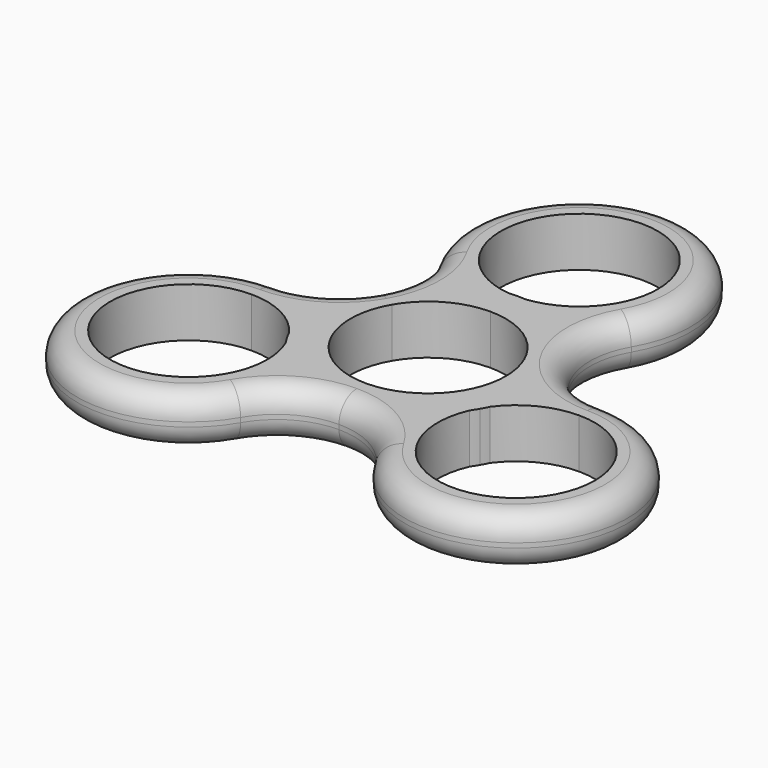
from build123d import *

# Parameters (mm, degrees)
F1_DEPTH = 7
F2_R     = 3.175
F3_DEPTH = 7.001


with BuildPart() as f1:
    # F0 (on Top) → F1 (new body)
    with BuildSketch(Plane.XY):
        with BuildLine():
            ThreePointArc((9.5262794416, 5.5), (10.6251840892, 2.8470094961), (11, 0))
            ThreePointArc((11, 0), (10.6251840892, -2.8470094961), (9.5262794416, -5.5))
            Line((9.5262794416, -5.5), (13.5532975692, -7.825))
            ThreePointArc((13.5532975692, -7.825), (13.8704404913, -7.3087286342), (14.2152508461, -6.8105102329))
            ThreePointArc((14.2152508461, -6.8105102329), (15.3708213462, -3.4920276909), (15.7625, 0))
            ThreePointArc((15.7625, 0), (15.7603228949, 0.2619704177), (15.7537921808, 0.5238684691))
            ThreePointArc((15.7537921808, 0.5238684691), (15.1554999741, 4.3321157401), (13.6507254004, 7.8812500464))
            Line((13.6507254272, 7.88125), (9.5262794416, 5.5))
        make_face()
        with BuildLine():
            ThreePointArc((0, 11), (5.5, 9.5262794416), (9.5262794416, 5.5))
            Line((9.5262794416, 5.5), (13.6507254272, 7.88125))
            ThreePointArc((13.6507254004, 7.8812500464), (11.3294722329, 10.9589901531), (8.3305794929, 13.38125))
            ThreePointArc((8.3305794929, 13.38125), (4.9108361907, 14.9779869862), (1.2095505486, 15.7160234703))
            ThreePointArc((1.2095505486, 15.7160234703), (0.6056755791, 15.6665181443), (0, 15.65))
            Line((0, 15.65), (0, 11))
        make_face()
        with BuildLine():
            Line((13.5532975692, -7.825), (9.5262794416, -5.5))
            ThreePointArc((9.5262794416, -5.5), (5.5, -9.5262794416), (0, -11))
            Line((0, -11), (0, -15.7625))
            ThreePointArc((2.65e-08, -15.7625), (3.8260277428, -15.2911058449), (7.4232126879, -13.9051184691))
            ThreePointArc((7.4232126879, -13.9051184691), (10.5158991322, -11.7419023881), (13.0057002975, -8.9055132374))
            ThreePointArc((13.0057002975, -8.9055132374), (13.2647649122, -8.3577895101), (13.5532975692, -7.825))
        make_face()
        with BuildLine():
            ThreePointArc((-9.5262794416, 5.5), (-5.5, 9.5262794416), (0, 11))
            Line((0, 11), (0, 15.65))
            ThreePointArc((0, 15.65), (-0.6056755791, 15.6665181443), (-1.2095505486, 15.7160234703))
            ThreePointArc((-1.2095505486, 15.7160234703), (-4.9108361907, 14.9779869862), (-8.3305794929, 13.38125))
            ThreePointArc((-8.3305794929, 13.38125), (-11.3294722485, 10.9589901369), (-13.6507254229, 7.8812500074))
            Line((-13.6507254272, 7.88125), (-9.5262794416, 5.5))
        make_face()
        with BuildLine():
            ThreePointArc((23.1770048688, 2.38125), (17.6770048456, 3.8549705718), (13.6507254004, 7.8812500464))
            ThreePointArc((13.6507254004, 7.8812500464), (15.1554999741, 4.3321157401), (15.7537921808, 0.5238684691))
            ThreePointArc((15.7537921808, 0.5238684691), (19.3509771388, 1.9098558482), (23.1770048688, 2.38125))
        make_face()
        with BuildLine():
            ThreePointArc((8.3305794929, 13.38125), (11.3294722329, 10.9589901531), (13.6507254004, 7.8812500464))
            ThreePointArc((13.6507254004, 7.8812500464), (12.1770048688, 13.3812500268), (13.6507254272, 18.88125))
            ThreePointArc((13.6507254272, 18.88125), (11.3294722515, 15.8035098662), (8.3305794929, 13.38125))
        make_face()
        with BuildLine():
            Line((0, -15.7625), (0, -11))
            ThreePointArc((0, -11), (-5.5, -9.5262794416), (-9.5262794416, -5.5))
            Line((-9.5262794416, -5.5), (-13.5532975692, -7.825))
            ThreePointArc((-13.5532975692, -7.825), (-13.2647649122, -8.3577895101), (-13.0057002975, -8.9055132374))
            ThreePointArc((-13.0057002975, -8.9055132374), (-10.5158991322, -11.7419023881), (-7.4232126879, -13.9051184691))
            ThreePointArc((-7.4232126879, -13.9051184691), (-3.8260277171, -15.2911058514), (2.65e-08, -15.7625))
        make_face()
        with BuildLine():
            ThreePointArc((-9.5262794416, -5.5), (-11, 0), (-9.5262794416, 5.5))
            Line((-9.5262794416, 5.5), (-13.6507254272, 7.88125))
            ThreePointArc((-13.6507254229, 7.8812500074), (-15.1554999803, 4.3321157185), (-15.7537921808, 0.5238684691))
            ThreePointArc((-15.7537921808, 0.5238684691), (-15.4267353229, -3.2360845981), (-14.2152508461, -6.8105102329))
            ThreePointArc((-14.2152508461, -6.8105102329), (-13.8704404913, -7.3087286342), (-13.5532975692, -7.825))
            Line((-13.5532975692, -7.825), (-9.5262794416, -5.5))
        make_face()
        with BuildLine():
            ThreePointArc((23.1770048688, 2.38125), (19.3509771388, 1.9098558482), (15.7537921808, 0.5238684691))
            ThreePointArc((15.7537921808, 0.5238684691), (15.7603228949, 0.2619704177), (15.7625, 0))
            ThreePointArc((15.7625, 0), (15.3708213462, -3.4920276909), (14.2152508461, -6.8105102329))
            ThreePointArc((14.2152508461, -6.8105102329), (18.1535443788, -3.4690100435), (23.1770048688, -2.26875))
            Line((23.1770048688, -2.26875), (23.1770048688, 2.38125))
        make_face()
        with BuildLine():
            ThreePointArc((1.2095505486, 15.7160234703), (4.9108361907, 14.9779869862), (8.3305794929, 13.38125))
            ThreePointArc((8.3305794929, 13.38125), (11.3294722515, 15.8035098662), (13.6507254272, 18.88125))
            Line((13.6507254272, 18.88125), (9.6237072996, 21.20625))
            ThreePointArc((9.6237072996, 21.20625), (6.0725213658, 17.4559356225), (1.2095505486, 15.7160234703))
        make_face()
        with BuildLine():
            Line((9.6237072996, 21.20625), (13.6507254272, 18.88125))
            ThreePointArc((13.6507254272, 18.88125), (0, 42.525), (-13.6507254272, 18.88125))
            Line((-13.6507254272, 18.88125), (-9.6237072996, 21.20625))
            ThreePointArc((-9.6237072996, 21.20625), (-2.8761266387, 37.4963507446), (11.1125, 26.7625))
            ThreePointArc((11.1125, 26.7625), (10.7338507446, 23.8863733613), (9.6237072996, 21.20625))
        make_face()
        with BuildLine():
            ThreePointArc((9.5262794416, -21.2625), (36.8277302959, -21.2625), (23.1770048688, 2.38125))
            Line((23.1770048688, 2.38125), (23.1770048688, -2.26875))
            ThreePointArc((23.1770048688, -2.26875), (31.0347289747, -5.5235258941), (34.2895048688, -13.38125))
            ThreePointArc((34.2895048688, -13.38125), (26.0531315075, -24.1151007446), (13.5532975692, -18.9375))
            Line((13.5532975692, -18.9375), (9.5262794416, -21.2625))
        make_face()
        with BuildLine():
            ThreePointArc((-9.5262794416, -21.2625), (-5.4999999885, -17.2362205517), (2.65e-08, -15.7625))
            ThreePointArc((2.65e-08, -15.7625), (-3.8260277171, -15.2911058514), (-7.4232126879, -13.9051184691))
            ThreePointArc((-7.4232126879, -13.9051184691), (-8.0215048873, -17.7133657143), (-9.5262794416, -21.2625))
        make_face()
        with BuildLine():
            ThreePointArc((7.4232126879, -13.9051184691), (3.8260277428, -15.2911058449), (2.65e-08, -15.7625))
            ThreePointArc((2.65e-08, -15.7625), (5.5000000115, -17.236220565), (9.5262794416, -21.2625))
            ThreePointArc((9.5262794416, -21.2625), (8.0215048873, -17.7133657143), (7.4232126879, -13.9051184691))
        make_face()
        with BuildLine():
            ThreePointArc((13.5532975692, -18.9375), (12.081023013, -13.9869255791), (13.0057002975, -8.9055132374))
            ThreePointArc((13.0057002975, -8.9055132374), (10.5158991322, -11.7419023881), (7.4232126879, -13.9051184691))
            ThreePointArc((7.4232126879, -13.9051184691), (8.0215048873, -17.7133657143), (9.5262794416, -21.2625))
            Line((9.5262794416, -21.2625), (13.5532975692, -18.9375))
        make_face()
        with BuildLine():
            ThreePointArc((-13.6507254272, 18.88125), (-12.1770048688, 13.3812500043), (-13.6507254229, 7.8812500074))
            ThreePointArc((-13.6507254229, 7.8812500074), (-11.3294722485, 10.9589901369), (-8.3305794929, 13.38125))
            ThreePointArc((-8.3305794929, 13.38125), (-11.3294722515, 15.8035098662), (-13.6507254272, 18.88125))
        make_face()
        with BuildLine():
            ThreePointArc((-15.7537921808, 0.5238684691), (-15.1554999803, 4.3321157185), (-13.6507254229, 7.8812500074))
            ThreePointArc((-13.6507254229, 7.8812500074), (-17.6770048651, 3.8549705605), (-23.1770048688, 2.38125))
            ThreePointArc((-23.1770048688, 2.38125), (-19.3509771388, 1.9098558482), (-15.7537921808, 0.5238684691))
        make_face()
        with BuildLine():
            ThreePointArc((-8.3305794929, 13.38125), (-4.9108361907, 14.9779869862), (-1.2095505486, 15.7160234703))
            ThreePointArc((-1.2095505486, 15.7160234703), (-6.0725213658, 17.4559356225), (-9.6237072996, 21.20625))
            Line((-9.6237072996, 21.20625), (-13.6507254272, 18.88125))
            ThreePointArc((-13.6507254272, 18.88125), (-11.3294722515, 15.8035098662), (-8.3305794929, 13.38125))
        make_face()
        with BuildLine():
            ThreePointArc((-9.5262794416, -21.2625), (-8.0215048873, -17.7133657143), (-7.4232126879, -13.9051184691))
            ThreePointArc((-7.4232126879, -13.9051184691), (-10.5158991322, -11.7419023881), (-13.0057002975, -8.9055132374))
            ThreePointArc((-13.0057002975, -8.9055132374), (-12.3023490513, -11.0944362558), (-12.0645048688, -13.38125))
            ThreePointArc((-12.0645048688, -13.38125), (-12.4431541241, -16.2573766387), (-13.5532975692, -18.9375))
            Line((-13.5532975692, -18.9375), (-9.5262794416, -21.2625))
        make_face()
        with BuildLine():
            ThreePointArc((-23.1770048688, 2.38125), (-36.8277302959, -21.2625), (-9.5262794416, -21.2625))
            Line((-9.5262794416, -21.2625), (-13.5532975692, -18.9375))
            ThreePointArc((-13.5532975692, -18.9375), (-32.8007121683, -18.9375), (-23.1770048688, -2.26875))
            Line((-23.1770048688, -2.26875), (-23.1770048688, 2.38125))
        make_face()
        with BuildLine():
            ThreePointArc((-14.2152508461, -6.8105102329), (-15.4267353229, -3.2360845981), (-15.7537921808, 0.5238684691))
            ThreePointArc((-15.7537921808, 0.5238684691), (-19.3509771388, 1.9098558482), (-23.1770048688, 2.38125))
            Line((-23.1770048688, 2.38125), (-23.1770048688, -2.26875))
            ThreePointArc((-23.1770048688, -2.26875), (-18.1535443788, -3.4690100435), (-14.2152508461, -6.8105102329))
        make_face()
        with BuildLine():
            ThreePointArc((-23.1770048688, -2.26875), (-32.8007121683, -18.9375), (-13.5532975692, -18.9375))
            Line((-13.5532975692, -18.9375), (-23.1770048688, -13.38125))
            Line((-23.1770048688, -13.38125), (-23.1770048688, -2.26875))
        make_face()
        with BuildLine():
            ThreePointArc((-12.0645048688, -13.38125), (-12.3023490513, -11.0944362558), (-13.0057002975, -8.9055132374))
            ThreePointArc((-13.0057002975, -8.9055132374), (-13.3380484666, -8.3995755459), (-13.6507254272, -7.88125))
            Line((-13.6507254272, -7.88125), (-23.1770048688, -13.38125))
            Line((-23.1770048688, -13.38125), (-13.5532975692, -18.9375))
            ThreePointArc((-13.5532975692, -18.9375), (-12.4431541241, -16.2573766387), (-12.0645048688, -13.38125))
        make_face()
        with BuildLine():
            ThreePointArc((34.2895048688, -13.38125), (31.0347289747, -5.5235258941), (23.1770048688, -2.26875))
            Line((23.1770048688, -2.26875), (23.1770048688, -13.38125))
            Line((23.1770048688, -13.38125), (13.5532975692, -18.9375))
            ThreePointArc((13.5532975692, -18.9375), (26.0531315075, -24.1151007446), (34.2895048688, -13.38125))
        make_face()
        with BuildLine():
            ThreePointArc((13.6507254272, -7.88125), (13.3380484666, -8.3995755459), (13.0057002975, -8.9055132374))
            ThreePointArc((13.0057002975, -8.9055132374), (12.081023013, -13.9869255791), (13.5532975692, -18.9375))
            Line((13.5532975692, -18.9375), (23.1770048688, -13.38125))
            Line((23.1770048688, -13.38125), (13.6507254272, -7.88125))
        make_face()
        with BuildLine():
            ThreePointArc((23.1770048688, -2.26875), (18.1535443788, -3.4690100435), (14.2152508461, -6.8105102329))
            ThreePointArc((14.2152508461, -6.8105102329), (13.9432700371, -7.351301036), (13.6507254272, -7.88125))
            Line((13.6507254272, -7.88125), (23.1770048688, -13.38125))
            Line((23.1770048688, -13.38125), (23.1770048688, -2.26875))
        make_face()
        with BuildLine():
            ThreePointArc((-13.6507254272, -7.88125), (-13.9432700371, -7.351301036), (-14.2152508461, -6.8105102329))
            ThreePointArc((-14.2152508461, -6.8105102329), (-18.1535443788, -3.4690100435), (-23.1770048688, -2.26875))
            Line((-23.1770048688, -2.26875), (-23.1770048688, -13.38125))
            Line((-23.1770048688, -13.38125), (-13.6507254272, -7.88125))
        make_face()
        with BuildLine():
            ThreePointArc((0, -11), (5.5, -9.5262794416), (9.5262794416, -5.5))
            Line((9.5262794416, -5.5), (0, 0))
            Line((0, 0), (0, -11))
        make_face()
        with BuildLine():
            Line((0, -11), (0, 0))
            Line((0, 0), (-9.5262794416, -5.5))
            ThreePointArc((-9.5262794416, -5.5), (-5.5, -9.5262794416), (0, -11))
        make_face()
        with BuildLine():
            Line((-9.5262794416, -5.5), (0, 0))
            Line((0, 0), (-9.5262794416, 5.5))
            ThreePointArc((-9.5262794416, 5.5), (-11, 0), (-9.5262794416, -5.5))
        make_face()
        with BuildLine():
            Line((0, 0), (0, 11))
            ThreePointArc((0, 11), (-5.5, 9.5262794416), (-9.5262794416, 5.5))
            Line((-9.5262794416, 5.5), (0, 0))
        make_face()
        with BuildLine():
            Line((0, 0), (9.5262794416, 5.5))
            ThreePointArc((9.5262794416, 5.5), (5.5, 9.5262794416), (0, 11))
            Line((0, 11), (0, 0))
        make_face()
        with BuildLine():
            ThreePointArc((9.5262794416, -5.5), (10.6251840892, -2.8470094961), (11, 0))
            ThreePointArc((11, 0), (10.6251840892, 2.8470094961), (9.5262794416, 5.5))
            Line((9.5262794416, 5.5), (0, 0))
            Line((0, 0), (9.5262794416, -5.5))
        make_face()
        with BuildLine():
            Line((0, 26.7625), (0, 15.7625))
            ThreePointArc((0, 15.7625), (0.6052215705, 15.750876582), (1.2095505486, 15.7160234703))
            ThreePointArc((1.2095505486, 15.7160234703), (6.0725213658, 17.4559356225), (9.6237072996, 21.20625))
            Line((9.6237072996, 21.20625), (0, 26.7625))
        make_face()
        with BuildLine():
            ThreePointArc((-1.2095505486, 15.7160234703), (-0.6052215705, 15.750876582), (0, 15.7625))
            Line((0, 15.7625), (0, 26.7625))
            Line((0, 26.7625), (-9.6237072996, 21.20625))
            ThreePointArc((-9.6237072996, 21.20625), (-6.0725213658, 17.4559356225), (-1.2095505486, 15.7160234703))
        make_face()
        with BuildLine():
            Line((0, 26.7625), (9.6237072996, 21.20625))
            ThreePointArc((9.6237072996, 21.20625), (10.7338507446, 23.8863733613), (11.1125, 26.7625))
            ThreePointArc((11.1125, 26.7625), (-2.8761266387, 37.4963507446), (-9.6237072996, 21.20625))
            Line((-9.6237072996, 21.20625), (0, 26.7625))
        make_face()
        with BuildLine():
            Line((0, 15.7625), (0, 15.65))
            ThreePointArc((0, 15.65), (0.6056755791, 15.6665181443), (1.2095505486, 15.7160234703))
            ThreePointArc((1.2095505486, 15.7160234703), (0.6052215705, 15.750876582), (0, 15.7625))
        make_face()
        with BuildLine():
            ThreePointArc((-1.2095505486, 15.7160234703), (-0.6056755791, 15.6665181443), (0, 15.65))
            Line((0, 15.65), (0, 15.7625))
            ThreePointArc((0, 15.7625), (-0.6052215705, 15.750876582), (-1.2095505486, 15.7160234703))
        make_face()
        with BuildLine():
            ThreePointArc((-13.0057002975, -8.9055132374), (-13.2647649122, -8.3577895101), (-13.5532975692, -7.825))
            Line((-13.5532975692, -7.825), (-13.6507254272, -7.88125))
            ThreePointArc((-13.6507254272, -7.88125), (-13.3380484666, -8.3995755459), (-13.0057002975, -8.9055132374))
        make_face()
        with BuildLine():
            Line((-13.6507254272, -7.88125), (-13.5532975692, -7.825))
            ThreePointArc((-13.5532975692, -7.825), (-13.8704404913, -7.3087286342), (-14.2152508461, -6.8105102329))
            ThreePointArc((-14.2152508461, -6.8105102329), (-13.9432700371, -7.351301036), (-13.6507254272, -7.88125))
        make_face()
        with BuildLine():
            ThreePointArc((14.2152508461, -6.8105102329), (13.8704404913, -7.3087286342), (13.5532975692, -7.825))
            Line((13.5532975692, -7.825), (13.6507254272, -7.88125))
            ThreePointArc((13.6507254272, -7.88125), (13.9432700371, -7.351301036), (14.2152508461, -6.8105102329))
        make_face()
        with BuildLine():
            Line((13.6507254272, -7.88125), (13.5532975692, -7.825))
            ThreePointArc((13.5532975692, -7.825), (13.2647649122, -8.3577895101), (13.0057002975, -8.9055132374))
            ThreePointArc((13.0057002975, -8.9055132374), (13.3380484666, -8.3995755459), (13.6507254272, -7.88125))
        make_face()
    extrude(amount=F1_DEPTH)

    # F2
    f2_edges = [f1.edges().sort_by_distance(p)[0] for p in [
        (-13.650725, 7.88125, 7),
        (-36.82773, -21.2625, 7),
        (0, -15.7625, 7),
        (36.82773, -21.2625, 7),
        (13.650725, 7.88125, 7),
        (0, 42.525, 7),
        (-13.650725, 7.88125, 0),
        (-36.82773, -21.2625, 0),
        (0, -15.7625, 0),
        (36.82773, -21.2625, 0),
        (13.650725, 7.88125, 0),
        (0, 42.525, 0),
    ]]
    fillet(f2_edges, radius=F2_R)

    # F0 (on Top) → F3 (cut, through all)
    with BuildSketch(Plane.XY):
        with BuildLine():
            ThreePointArc((23.1770048688, -2.26875), (18.1535443788, -3.4690100435), (14.2152508461, -6.8105102329))
            ThreePointArc((14.2152508461, -6.8105102329), (13.9432700371, -7.351301036), (13.6507254272, -7.88125))
            Line((13.6507254272, -7.88125), (23.1770048688, -13.38125))
            Line((23.1770048688, -13.38125), (23.1770048688, -2.26875))
        make_face()
        with BuildLine():
            ThreePointArc((34.2895048688, -13.38125), (31.0347289747, -5.5235258941), (23.1770048688, -2.26875))
            Line((23.1770048688, -2.26875), (23.1770048688, -13.38125))
            Line((23.1770048688, -13.38125), (13.5532975692, -18.9375))
            ThreePointArc((13.5532975692, -18.9375), (26.0531315075, -24.1151007446), (34.2895048688, -13.38125))
        make_face()
        with BuildLine():
            ThreePointArc((13.6507254272, -7.88125), (13.3380484666, -8.3995755459), (13.0057002975, -8.9055132374))
            ThreePointArc((13.0057002975, -8.9055132374), (12.081023013, -13.9869255791), (13.5532975692, -18.9375))
            Line((13.5532975692, -18.9375), (23.1770048688, -13.38125))
            Line((23.1770048688, -13.38125), (13.6507254272, -7.88125))
        make_face()
        with BuildLine():
            ThreePointArc((9.5262794416, -5.5), (10.6251840892, -2.8470094961), (11, 0))
            ThreePointArc((11, 0), (10.6251840892, 2.8470094961), (9.5262794416, 5.5))
            Line((9.5262794416, 5.5), (0, 0))
            Line((0, 0), (9.5262794416, -5.5))
        make_face()
        with BuildLine():
            Line((0, 0), (0, 11))
            ThreePointArc((0, 11), (-5.5, 9.5262794416), (-9.5262794416, 5.5))
            Line((-9.5262794416, 5.5), (0, 0))
        make_face()
        with BuildLine():
            Line((0, 0), (9.5262794416, 5.5))
            ThreePointArc((9.5262794416, 5.5), (5.5, 9.5262794416), (0, 11))
            Line((0, 11), (0, 0))
        make_face()
        with BuildLine():
            ThreePointArc((0, -11), (5.5, -9.5262794416), (9.5262794416, -5.5))
            Line((9.5262794416, -5.5), (0, 0))
            Line((0, 0), (0, -11))
        make_face()
        with BuildLine():
            Line((0, -11), (0, 0))
            Line((0, 0), (-9.5262794416, -5.5))
            ThreePointArc((-9.5262794416, -5.5), (-5.5, -9.5262794416), (0, -11))
        make_face()
        with BuildLine():
            Line((-9.5262794416, -5.5), (0, 0))
            Line((0, 0), (-9.5262794416, 5.5))
            ThreePointArc((-9.5262794416, 5.5), (-11, 0), (-9.5262794416, -5.5))
        make_face()
        with BuildLine():
            ThreePointArc((-13.6507254272, -7.88125), (-13.9432700371, -7.351301036), (-14.2152508461, -6.8105102329))
            ThreePointArc((-14.2152508461, -6.8105102329), (-18.1535443788, -3.4690100435), (-23.1770048688, -2.26875))
            Line((-23.1770048688, -2.26875), (-23.1770048688, -13.38125))
            Line((-23.1770048688, -13.38125), (-13.6507254272, -7.88125))
        make_face()
        with BuildLine():
            ThreePointArc((-12.0645048688, -13.38125), (-12.3023490513, -11.0944362558), (-13.0057002975, -8.9055132374))
            ThreePointArc((-13.0057002975, -8.9055132374), (-13.3380484666, -8.3995755459), (-13.6507254272, -7.88125))
            Line((-13.6507254272, -7.88125), (-23.1770048688, -13.38125))
            Line((-23.1770048688, -13.38125), (-13.5532975692, -18.9375))
            ThreePointArc((-13.5532975692, -18.9375), (-12.4431541241, -16.2573766387), (-12.0645048688, -13.38125))
        make_face()
        with BuildLine():
            ThreePointArc((-23.1770048688, -2.26875), (-32.8007121683, -18.9375), (-13.5532975692, -18.9375))
            Line((-13.5532975692, -18.9375), (-23.1770048688, -13.38125))
            Line((-23.1770048688, -13.38125), (-23.1770048688, -2.26875))
        make_face()
        with BuildLine():
            Line((0, 26.7625), (0, 15.7625))
            ThreePointArc((0, 15.7625), (0.6052215705, 15.750876582), (1.2095505486, 15.7160234703))
            ThreePointArc((1.2095505486, 15.7160234703), (6.0725213658, 17.4559356225), (9.6237072996, 21.20625))
            Line((9.6237072996, 21.20625), (0, 26.7625))
        make_face()
        with BuildLine():
            ThreePointArc((-1.2095505486, 15.7160234703), (-0.6052215705, 15.750876582), (0, 15.7625))
            Line((0, 15.7625), (0, 26.7625))
            Line((0, 26.7625), (-9.6237072996, 21.20625))
            ThreePointArc((-9.6237072996, 21.20625), (-6.0725213658, 17.4559356225), (-1.2095505486, 15.7160234703))
        make_face()
        with BuildLine():
            Line((0, 26.7625), (9.6237072996, 21.20625))
            ThreePointArc((9.6237072996, 21.20625), (10.7338507446, 23.8863733613), (11.1125, 26.7625))
            ThreePointArc((11.1125, 26.7625), (-2.8761266387, 37.4963507446), (-9.6237072996, 21.20625))
            Line((-9.6237072996, 21.20625), (0, 26.7625))
        make_face()
    extrude(amount=F3_DEPTH, mode=Mode.SUBTRACT)


solid = f1.part
